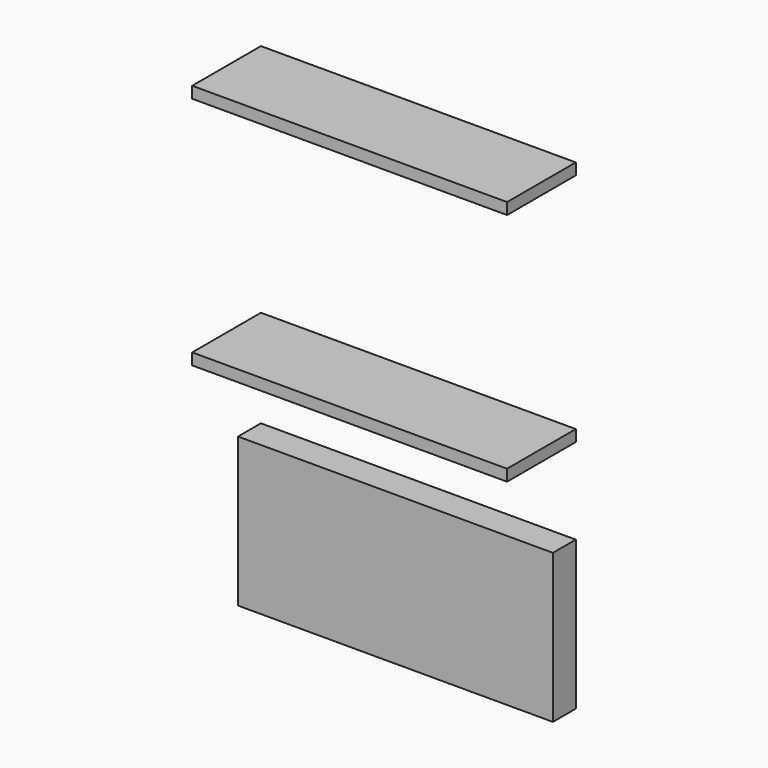
from build123d import *

# Parameters (mm, degrees)
F0_W     = 550
F0_H     = 20
F1_DEPTH = 150
F0_H_2   = 260
F2_DEPTH = 50


with BuildPart() as f1:
    # F0 (on Front) → F1 (new body)
    with BuildSketch(Plane.XZ):
        with Locations((0, 440)):
            Rectangle(F0_W, F0_H)
        with Locations((0, 30)):
            Rectangle(F0_W, F0_H)
    extrude(amount=F1_DEPTH)


with BuildPart() as f2:
    # F0 (on Front) → F2 (new body)
    with BuildSketch(Plane.XZ):
        with Locations((0, -260)):
            Rectangle(F0_W, F0_H_2)
    extrude(amount=F2_DEPTH)


solid = Compound([f1.part, f2.part])
